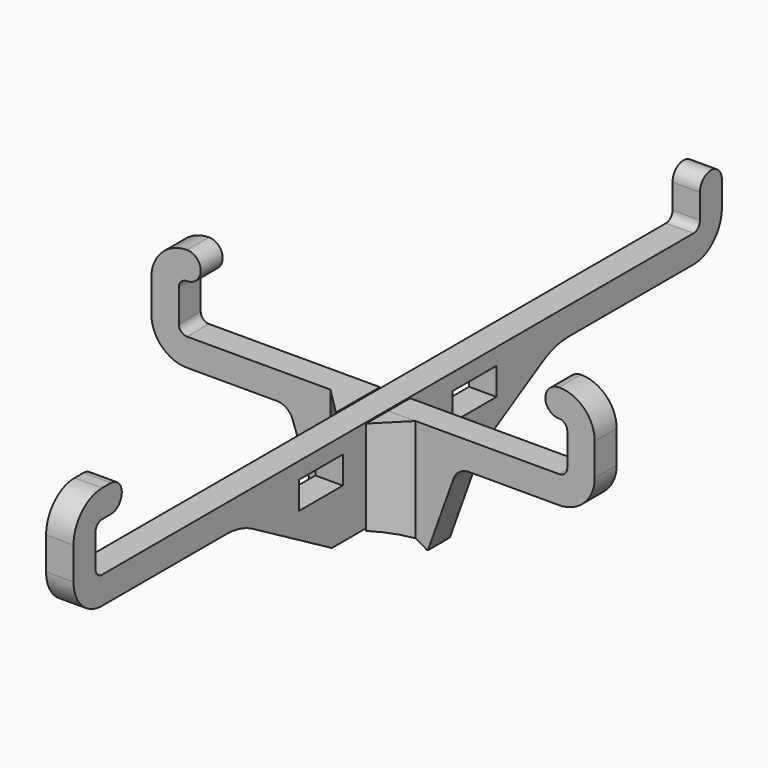
from build123d import *

# Parameters (mm, degrees)
SKETCH_W     = 10
SKETCH_H     = 5
PAD_DEPTH    = 2.5
PAD001_DEPTH = 2.5
PAD002_DEPTH = 20
POCKET_DEPTH = 10


with BuildPart() as vertical:
    # Sketch → Pad (new body, symmetric)
    with BuildSketch(Plane.YZ):
        with BuildLine():
            Line((73.85, 18.500001), (73.85, 22.999997))
            ThreePointArc((73.85, 22.999997), (71.350002, 25.499996), (68.85, 23))
            Line((68.85, 18.499993), (68.85, 23))
            ThreePointArc((67.35, 17), (68.410658, 17.439337), (68.85, 18.499993))
            Line((-67.35, 17), (67.35, 17))
            ThreePointArc((-68.85, 18.499993), (-68.410658, 17.439337), (-67.35, 17))
            Line((-68.85, 24.400007), (-68.85, 18.499993))
            ThreePointArc((-67.35, 25.9), (-68.410658, 25.460663), (-68.85, 24.400007))
            Line((-67.35, 25.9), (-65.35, 25.9))
            ThreePointArc((-65.35, 25.9), (-62.85, 28.399999), (-65.349999, 30.9))
            Line((-65.349999, 30.9), (-67.350003, 30.9))
            ThreePointArc((-67.350003, 30.9), (-71.946195, 28.996193), (-73.85, 24.399999))
            Line((-73.85, 18.499993), (-73.85, 24.399999))
            ThreePointArc((-73.85, 18.499993), (-71.946192, 13.903803), (-67.35, 12))
            Line((-67.35, 12), (-39.000008, 12))
            ThreePointArc((-33, 10.392302), (-35.894175, 11.591109), (-39.000008, 12))
            Line((-15, 0), (-33, 10.392302))
            Line((-15, 0), (-2.75, 0))
            Line((-2.75, 0), (-2.75, 8.7))
            Line((-2.75, 8.7), (2.75, 8.7))
            Line((2.75, 8.7), (2.75, 0))
            Line((2.75, 0), (15, 0))
            Line((15, 0), (33, 10.392302))
            ThreePointArc((39.000008, 12), (35.894175, 11.591109), (33, 10.392302))
            Line((39.000008, 12), (67.35, 12))
            ThreePointArc((67.35, 12), (71.946194, 13.903806), (73.85, 18.500001))
        make_face()
        with Locations((-17.5, 11.5)):
            Rectangle(SKETCH_W, SKETCH_H, mode=Mode.SUBTRACT)
        with Locations((17.5, 11.5)):
            Rectangle(SKETCH_W, SKETCH_H, mode=Mode.SUBTRACT)
    extrude(amount=PAD_DEPTH, both=True)


with BuildPart() as fusion:
    # Sketch001 → Pad001 (new body, symmetric)
    with BuildSketch(Plane.XZ):
        with BuildLine():
            Line((17.5, 12.000015), (33.899995, 12))
            ThreePointArc((33.899995, 12), (38.496192, 13.903804), (40.4, 18.5))
            Line((40.4, 24.400027), (40.4, 18.5))
            ThreePointArc((40.4, 24.400027), (38.496194, 28.996221), (33.9, 30.900026))
            ThreePointArc((33.9, 30.900026), (31.4, 28.400026), (33.9, 25.900026))
            ThreePointArc((35.4, 24.400026), (34.96066, 25.460686), (33.9, 25.900026))
            Line((35.4, 18.500003), (35.4, 24.400026))
            ThreePointArc((33.9, 17), (34.960661, 17.439341), (35.4, 18.500003))
            Line((2.75, 17), (33.9, 17))
            Line((2.75, 8.3), (2.75, 17))
            Line((-2.75, 8.3), (2.75, 8.3))
            Line((-2.75, 17.000015), (-2.75, 8.3))
            Line((-33.9, 17.000015), (-2.75, 17.000015))
            ThreePointArc((-35.4, 18.500003), (-34.960656, 17.439351), (-33.9, 17.000015))
            Line((-35.4, 18.500003), (-35.4, 24.400026))
            ThreePointArc((-33.9, 25.900015), (-34.960656, 25.460679), (-35.4, 24.400026))
            ThreePointArc((-33.9, 25.900015), (-31.4, 28.400015), (-33.9, 30.900015))
            ThreePointArc((-33.9, 30.900015), (-38.49619, 28.996213), (-40.4, 24.400026))
            Line((-40.4, 24.400026), (-40.4, 18.500003))
            ThreePointArc((-40.4, 18.500003), (-38.49619, 13.903817), (-33.900001, 12.000015))
            Line((-33.900001, 12.000015), (-17.5, 12.000015))
            ThreePointArc((-14.676752, 10.014543), (-15.774252, 11.453949), (-17.5, 12.000015))
            Line((-14.676752, 10.014543), (-10, -3))
            Line((-10, -3), (10, -3))
            Line((10, -3), (14.676748, 10.014542))
            ThreePointArc((17.5, 12.000015), (15.77425, 11.453949), (14.676748, 10.014542))
        make_face()
    extrude(amount=PAD001_DEPTH, both=True)

    # Sketch002 → Pad002 (new body)
    with BuildSketch(Plane(origin=(0, 0, 17.000015), x_dir=(-1, 0, 0), z_dir=(0, 0, 1))):
        Polygon((-7.75, 2.5), (-2.75, 7.5), (-2.75, 2.5), align=None)
        Polygon((2.75, 7.5), (2.75, 2.5), (7.75, 2.5), align=None)
    extrude(amount=-PAD002_DEPTH)

    # Sketch003 → Pocket (cut)
    with BuildSketch(Plane(origin=(0, 2.5, 0), x_dir=(1, 0, 0), z_dir=(0, 1, 0))):
        with BuildLine():
            ThreePointArc((-10, 3.138593), (0, 0), (10, 3.138593))
            Line((-10, 3.138593), (10, 3.138593))
        make_face()
    extrude(amount=-POCKET_DEPTH, mode=Mode.SUBTRACT)

    # Fusion: union Vertical
    add(vertical.part)


solid = fusion.part
